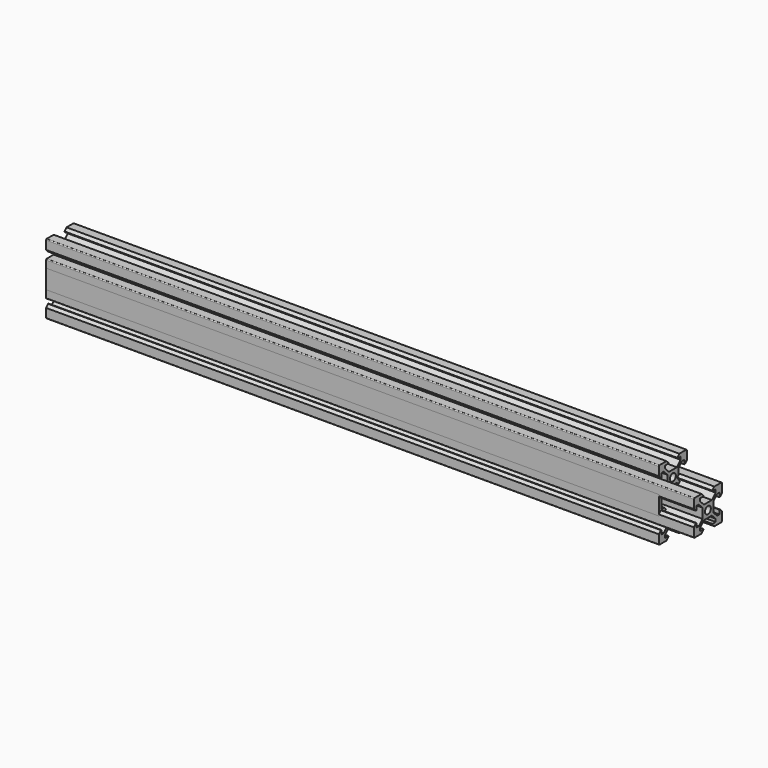
from build123d import *

# Parameters (mm, degrees)
F0_R     = 2.1
F2_DEPTH = 325
F3_DEPTH = 240
F4_DEPTH = 290
F1_R     = 2.1
F5_DEPTH = 327
F6_DEPTH = 350
F7_DEPTH = 370
F8_DEPTH = 350


with BuildPart() as f2:
    # F0 (on Right) → F2 (new body)
    with BuildSketch(Plane.YZ):
        with BuildLine():
            Line((2.83934, 13.9), (0, 13.9))
            Line((0, 13.9), (-2.83934, 13.9))
            Line((-2.83934, 13.9), (-5.5, 16.56066))
            Line((-5.5, 16.56066), (-5.5, 18.2))
            Line((-5.5, 18.2), (-3.125, 18.2))
            Line((-3.125, 18.2), (-3.125, 18.545))
            Line((-3.125, 18.545), (-4.58, 20))
            Line((-4.58, 20), (-9.5, 20))
            ThreePointArc((-9.5, 20), (-9.853553, 19.853553), (-10, 19.5))
            Line((-10, 19.5), (-10, 14.58))
            Line((-10, 14.58), (-8.545, 13.125))
            Line((-8.545, 13.125), (-8.2, 13.125))
            Line((-8.2, 13.125), (-8.2, 15.5))
            Line((-8.2, 15.5), (-6.56066, 15.5))
            Line((-6.56066, 15.5), (-3.9, 12.83934))
            Line((-3.9, 12.83934), (-3.9, 10))
            Line((-3.9, 10), (-3.9, 7.16066))
            Line((-3.9, 7.16066), (-6.56066, 4.5))
            Line((-6.56066, 4.5), (-8.2, 4.5))
            Line((-8.2, 4.5), (-8.2, 6.875))
            Line((-8.2, 6.875), (-8.545, 6.875))
            Line((-8.545, 6.875), (-10, 5.42))
            Line((-10, 5.42), (-10, 0))
            Line((-10, 0), (-10, -5.42))
            Line((-10, -5.42), (-8.545, -6.875))
            Line((-8.545, -6.875), (-8.2, -6.875))
            Line((-8.2, -6.875), (-8.2, -4.5))
            Line((-8.2, -4.5), (-6.56066, -4.5))
            Line((-6.56066, -4.5), (-3.9, -7.16066))
            Line((-3.9, -7.16066), (-3.9, -10))
            Line((-3.9, -10), (-3.9, -12.83934))
            Line((-3.9, -12.83934), (-6.56066, -15.5))
            Line((-6.56066, -15.5), (-8.2, -15.5))
            Line((-8.2, -15.5), (-8.2, -13.125))
            Line((-8.2, -13.125), (-8.545, -13.125))
            Line((-8.545, -13.125), (-10, -14.58))
            Line((-10, -14.58), (-10, -19.5))
            ThreePointArc((-10, -19.5), (-9.853553, -19.853553), (-9.5, -20))
            Line((-9.5, -20), (-4.58, -20))
            Line((-4.58, -20), (-3.125, -18.545))
            Line((-3.125, -18.545), (-3.125, -18.2))
            Line((-3.125, -18.2), (-5.5, -18.2))
            Line((-5.5, -18.2), (-5.5, -16.56066))
            Line((-5.5, -16.56066), (-2.83934, -13.9))
            Line((-2.83934, -13.9), (0, -13.9))
            Line((0, -13.9), (2.83934, -13.9))
            Line((2.83934, -13.9), (5.5, -16.56066))
            Line((5.5, -16.56066), (5.5, -18.2))
            Line((5.5, -18.2), (3.125, -18.2))
            Line((3.125, -18.2), (3.125, -18.545))
            Line((3.125, -18.545), (4.58, -20))
            Line((4.58, -20), (9.5, -20))
            ThreePointArc((9.5, -20), (9.853553, -19.853553), (10, -19.5))
            Line((10, -19.5), (10, -14.58))
            Line((10, -14.58), (8.545, -13.125))
            Line((8.545, -13.125), (8.2, -13.125))
            Line((8.2, -13.125), (8.2, -15.5))
            Line((8.2, -15.5), (6.56066, -15.5))
            Line((6.56066, -15.5), (3.9, -12.83934))
            Line((3.9, -12.83934), (3.9, -10))
            Line((3.9, -10), (3.9, -7.16066))
            Line((3.9, -7.16066), (6.56066, -4.5))
            Line((6.56066, -4.5), (8.2, -4.5))
            Line((8.2, -4.5), (8.2, -6.875))
            Line((8.2, -6.875), (8.545, -6.875))
            Line((8.545, -6.875), (10, -5.42))
            Line((10, -5.42), (10, 0))
            Line((10, 0), (10, 5.42))
            Line((10, 5.42), (8.545, 6.875))
            Line((8.545, 6.875), (8.2, 6.875))
            Line((8.2, 6.875), (8.2, 4.5))
            Line((8.2, 4.5), (6.56066, 4.5))
            Line((6.56066, 4.5), (3.9, 7.16066))
            Line((3.9, 7.16066), (3.9, 10))
            Line((3.9, 10), (3.9, 12.83934))
            Line((3.9, 12.83934), (6.56066, 15.5))
            Line((6.56066, 15.5), (8.2, 15.5))
            Line((8.2, 15.5), (8.2, 13.125))
            Line((8.2, 13.125), (8.545, 13.125))
            Line((8.545, 13.125), (10, 14.58))
            Line((10, 14.58), (10, 19.5))
            ThreePointArc((10, 19.5), (9.853553, 19.853553), (9.5, 20))
            Line((9.5, 20), (4.58, 20))
            Line((4.58, 20), (3.125, 18.545))
            Line((3.125, 18.545), (3.125, 18.2))
            Line((3.125, 18.2), (5.5, 18.2))
            Line((5.5, 18.2), (5.5, 16.56066))
            Line((5.5, 16.56066), (2.83934, 13.9))
        make_face()
        with Locations((0, -10)):
            Circle(F0_R, mode=Mode.SUBTRACT)
        Polygon((-2.83934, 6.1), (0, 6.1), (2.83934, 6.1), (6.23934, 2.7), (8.2, 2.7), (8.2, 0), (8.2, -2.7), (6.23934, -2.7), (2.83934, -6.1), (0, -6.1), (-2.83934, -6.1), (-6.23934, -2.7), (-8.2, -2.7), (-8.2, 0), (-8.2, 2.7), (-6.23934, 2.7), align=None, mode=Mode.SUBTRACT)
        with Locations((0, 10)):
            Circle(F0_R, mode=Mode.SUBTRACT)
    extrude(amount=F2_DEPTH)


with BuildPart() as f3:
    # F0 (on Right) → F3 (new body)
    with BuildSketch(Plane.YZ):
        with BuildLine():
            Line((2.83934, 13.9), (0, 13.9))
            Line((0, 13.9), (-2.83934, 13.9))
            Line((-2.83934, 13.9), (-5.5, 16.56066))
            Line((-5.5, 16.56066), (-5.5, 18.2))
            Line((-5.5, 18.2), (-3.125, 18.2))
            Line((-3.125, 18.2), (-3.125, 18.545))
            Line((-3.125, 18.545), (-4.58, 20))
            Line((-4.58, 20), (-9.5, 20))
            ThreePointArc((-9.5, 20), (-9.853553, 19.853553), (-10, 19.5))
            Line((-10, 19.5), (-10, 14.58))
            Line((-10, 14.58), (-8.545, 13.125))
            Line((-8.545, 13.125), (-8.2, 13.125))
            Line((-8.2, 13.125), (-8.2, 15.5))
            Line((-8.2, 15.5), (-6.56066, 15.5))
            Line((-6.56066, 15.5), (-3.9, 12.83934))
            Line((-3.9, 12.83934), (-3.9, 10))
            Line((-3.9, 10), (-3.9, 7.16066))
            Line((-3.9, 7.16066), (-6.56066, 4.5))
            Line((-6.56066, 4.5), (-8.2, 4.5))
            Line((-8.2, 4.5), (-8.2, 6.875))
            Line((-8.2, 6.875), (-8.545, 6.875))
            Line((-8.545, 6.875), (-10, 5.42))
            Line((-10, 5.42), (-10, 0))
            Line((-10, 0), (-10, -5.42))
            Line((-10, -5.42), (-8.545, -6.875))
            Line((-8.545, -6.875), (-8.2, -6.875))
            Line((-8.2, -6.875), (-8.2, -4.5))
            Line((-8.2, -4.5), (-6.56066, -4.5))
            Line((-6.56066, -4.5), (-3.9, -7.16066))
            Line((-3.9, -7.16066), (-3.9, -10))
            Line((-3.9, -10), (-3.9, -12.83934))
            Line((-3.9, -12.83934), (-6.56066, -15.5))
            Line((-6.56066, -15.5), (-8.2, -15.5))
            Line((-8.2, -15.5), (-8.2, -13.125))
            Line((-8.2, -13.125), (-8.545, -13.125))
            Line((-8.545, -13.125), (-10, -14.58))
            Line((-10, -14.58), (-10, -19.5))
            ThreePointArc((-10, -19.5), (-9.853553, -19.853553), (-9.5, -20))
            Line((-9.5, -20), (-4.58, -20))
            Line((-4.58, -20), (-3.125, -18.545))
            Line((-3.125, -18.545), (-3.125, -18.2))
            Line((-3.125, -18.2), (-5.5, -18.2))
            Line((-5.5, -18.2), (-5.5, -16.56066))
            Line((-5.5, -16.56066), (-2.83934, -13.9))
            Line((-2.83934, -13.9), (0, -13.9))
            Line((0, -13.9), (2.83934, -13.9))
            Line((2.83934, -13.9), (5.5, -16.56066))
            Line((5.5, -16.56066), (5.5, -18.2))
            Line((5.5, -18.2), (3.125, -18.2))
            Line((3.125, -18.2), (3.125, -18.545))
            Line((3.125, -18.545), (4.58, -20))
            Line((4.58, -20), (9.5, -20))
            ThreePointArc((9.5, -20), (9.853553, -19.853553), (10, -19.5))
            Line((10, -19.5), (10, -14.58))
            Line((10, -14.58), (8.545, -13.125))
            Line((8.545, -13.125), (8.2, -13.125))
            Line((8.2, -13.125), (8.2, -15.5))
            Line((8.2, -15.5), (6.56066, -15.5))
            Line((6.56066, -15.5), (3.9, -12.83934))
            Line((3.9, -12.83934), (3.9, -10))
            Line((3.9, -10), (3.9, -7.16066))
            Line((3.9, -7.16066), (6.56066, -4.5))
            Line((6.56066, -4.5), (8.2, -4.5))
            Line((8.2, -4.5), (8.2, -6.875))
            Line((8.2, -6.875), (8.545, -6.875))
            Line((8.545, -6.875), (10, -5.42))
            Line((10, -5.42), (10, 0))
            Line((10, 0), (10, 5.42))
            Line((10, 5.42), (8.545, 6.875))
            Line((8.545, 6.875), (8.2, 6.875))
            Line((8.2, 6.875), (8.2, 4.5))
            Line((8.2, 4.5), (6.56066, 4.5))
            Line((6.56066, 4.5), (3.9, 7.16066))
            Line((3.9, 7.16066), (3.9, 10))
            Line((3.9, 10), (3.9, 12.83934))
            Line((3.9, 12.83934), (6.56066, 15.5))
            Line((6.56066, 15.5), (8.2, 15.5))
            Line((8.2, 15.5), (8.2, 13.125))
            Line((8.2, 13.125), (8.545, 13.125))
            Line((8.545, 13.125), (10, 14.58))
            Line((10, 14.58), (10, 19.5))
            ThreePointArc((10, 19.5), (9.853553, 19.853553), (9.5, 20))
            Line((9.5, 20), (4.58, 20))
            Line((4.58, 20), (3.125, 18.545))
            Line((3.125, 18.545), (3.125, 18.2))
            Line((3.125, 18.2), (5.5, 18.2))
            Line((5.5, 18.2), (5.5, 16.56066))
            Line((5.5, 16.56066), (2.83934, 13.9))
        make_face()
        with Locations((0, -10)):
            Circle(F0_R, mode=Mode.SUBTRACT)
        Polygon((-2.83934, 6.1), (0, 6.1), (2.83934, 6.1), (6.23934, 2.7), (8.2, 2.7), (8.2, 0), (8.2, -2.7), (6.23934, -2.7), (2.83934, -6.1), (0, -6.1), (-2.83934, -6.1), (-6.23934, -2.7), (-8.2, -2.7), (-8.2, 0), (-8.2, 2.7), (-6.23934, 2.7), align=None, mode=Mode.SUBTRACT)
        with Locations((0, 10)):
            Circle(F0_R, mode=Mode.SUBTRACT)
    extrude(amount=F3_DEPTH)


with BuildPart() as f4:
    # F0 (on Right) → F4 (new body)
    with BuildSketch(Plane.YZ):
        with BuildLine():
            Line((2.83934, 13.9), (0, 13.9))
            Line((0, 13.9), (-2.83934, 13.9))
            Line((-2.83934, 13.9), (-5.5, 16.56066))
            Line((-5.5, 16.56066), (-5.5, 18.2))
            Line((-5.5, 18.2), (-3.125, 18.2))
            Line((-3.125, 18.2), (-3.125, 18.545))
            Line((-3.125, 18.545), (-4.58, 20))
            Line((-4.58, 20), (-9.5, 20))
            ThreePointArc((-9.5, 20), (-9.853553, 19.853553), (-10, 19.5))
            Line((-10, 19.5), (-10, 14.58))
            Line((-10, 14.58), (-8.545, 13.125))
            Line((-8.545, 13.125), (-8.2, 13.125))
            Line((-8.2, 13.125), (-8.2, 15.5))
            Line((-8.2, 15.5), (-6.56066, 15.5))
            Line((-6.56066, 15.5), (-3.9, 12.83934))
            Line((-3.9, 12.83934), (-3.9, 10))
            Line((-3.9, 10), (-3.9, 7.16066))
            Line((-3.9, 7.16066), (-6.56066, 4.5))
            Line((-6.56066, 4.5), (-8.2, 4.5))
            Line((-8.2, 4.5), (-8.2, 6.875))
            Line((-8.2, 6.875), (-8.545, 6.875))
            Line((-8.545, 6.875), (-10, 5.42))
            Line((-10, 5.42), (-10, 0))
            Line((-10, 0), (-10, -5.42))
            Line((-10, -5.42), (-8.545, -6.875))
            Line((-8.545, -6.875), (-8.2, -6.875))
            Line((-8.2, -6.875), (-8.2, -4.5))
            Line((-8.2, -4.5), (-6.56066, -4.5))
            Line((-6.56066, -4.5), (-3.9, -7.16066))
            Line((-3.9, -7.16066), (-3.9, -10))
            Line((-3.9, -10), (-3.9, -12.83934))
            Line((-3.9, -12.83934), (-6.56066, -15.5))
            Line((-6.56066, -15.5), (-8.2, -15.5))
            Line((-8.2, -15.5), (-8.2, -13.125))
            Line((-8.2, -13.125), (-8.545, -13.125))
            Line((-8.545, -13.125), (-10, -14.58))
            Line((-10, -14.58), (-10, -19.5))
            ThreePointArc((-10, -19.5), (-9.853553, -19.853553), (-9.5, -20))
            Line((-9.5, -20), (-4.58, -20))
            Line((-4.58, -20), (-3.125, -18.545))
            Line((-3.125, -18.545), (-3.125, -18.2))
            Line((-3.125, -18.2), (-5.5, -18.2))
            Line((-5.5, -18.2), (-5.5, -16.56066))
            Line((-5.5, -16.56066), (-2.83934, -13.9))
            Line((-2.83934, -13.9), (0, -13.9))
            Line((0, -13.9), (2.83934, -13.9))
            Line((2.83934, -13.9), (5.5, -16.56066))
            Line((5.5, -16.56066), (5.5, -18.2))
            Line((5.5, -18.2), (3.125, -18.2))
            Line((3.125, -18.2), (3.125, -18.545))
            Line((3.125, -18.545), (4.58, -20))
            Line((4.58, -20), (9.5, -20))
            ThreePointArc((9.5, -20), (9.853553, -19.853553), (10, -19.5))
            Line((10, -19.5), (10, -14.58))
            Line((10, -14.58), (8.545, -13.125))
            Line((8.545, -13.125), (8.2, -13.125))
            Line((8.2, -13.125), (8.2, -15.5))
            Line((8.2, -15.5), (6.56066, -15.5))
            Line((6.56066, -15.5), (3.9, -12.83934))
            Line((3.9, -12.83934), (3.9, -10))
            Line((3.9, -10), (3.9, -7.16066))
            Line((3.9, -7.16066), (6.56066, -4.5))
            Line((6.56066, -4.5), (8.2, -4.5))
            Line((8.2, -4.5), (8.2, -6.875))
            Line((8.2, -6.875), (8.545, -6.875))
            Line((8.545, -6.875), (10, -5.42))
            Line((10, -5.42), (10, 0))
            Line((10, 0), (10, 5.42))
            Line((10, 5.42), (8.545, 6.875))
            Line((8.545, 6.875), (8.2, 6.875))
            Line((8.2, 6.875), (8.2, 4.5))
            Line((8.2, 4.5), (6.56066, 4.5))
            Line((6.56066, 4.5), (3.9, 7.16066))
            Line((3.9, 7.16066), (3.9, 10))
            Line((3.9, 10), (3.9, 12.83934))
            Line((3.9, 12.83934), (6.56066, 15.5))
            Line((6.56066, 15.5), (8.2, 15.5))
            Line((8.2, 15.5), (8.2, 13.125))
            Line((8.2, 13.125), (8.545, 13.125))
            Line((8.545, 13.125), (10, 14.58))
            Line((10, 14.58), (10, 19.5))
            ThreePointArc((10, 19.5), (9.853553, 19.853553), (9.5, 20))
            Line((9.5, 20), (4.58, 20))
            Line((4.58, 20), (3.125, 18.545))
            Line((3.125, 18.545), (3.125, 18.2))
            Line((3.125, 18.2), (5.5, 18.2))
            Line((5.5, 18.2), (5.5, 16.56066))
            Line((5.5, 16.56066), (2.83934, 13.9))
        make_face()
        with Locations((0, -10)):
            Circle(F0_R, mode=Mode.SUBTRACT)
        Polygon((-2.83934, 6.1), (0, 6.1), (2.83934, 6.1), (6.23934, 2.7), (8.2, 2.7), (8.2, 0), (8.2, -2.7), (6.23934, -2.7), (2.83934, -6.1), (0, -6.1), (-2.83934, -6.1), (-6.23934, -2.7), (-8.2, -2.7), (-8.2, 0), (-8.2, 2.7), (-6.23934, 2.7), align=None, mode=Mode.SUBTRACT)
        with Locations((0, 10)):
            Circle(F0_R, mode=Mode.SUBTRACT)
    extrude(amount=F4_DEPTH)


with BuildPart() as f5:
    # F1 (on Right) → F5 (new body)
    with BuildSketch(Plane.YZ):
        with BuildLine():
            Line((-4.58, 10), (-9.5, 10))
            ThreePointArc((-9.5, 10), (-9.853553, 9.853553), (-10, 9.5))
            Line((-10, 9.5), (-10, 4.58))
            Line((-10, 4.58), (-8.545, 3.125))
            Line((-8.545, 3.125), (-8.2, 3.125))
            Line((-8.2, 3.125), (-8.2, 5.5))
            Line((-8.2, 5.5), (-6.56066, 5.5))
            Line((-6.56066, 5.5), (-3.9, 2.83934))
            Line((-3.9, 2.83934), (-3.9, 0))
            Line((-3.9, 0), (-3.9, -2.83934))
            Line((-3.9, -2.83934), (-6.56066, -5.5))
            Line((-6.56066, -5.5), (-8.2, -5.5))
            Line((-8.2, -5.5), (-8.2, -3.125))
            Line((-8.2, -3.125), (-8.545, -3.125))
            Line((-8.545, -3.125), (-10, -4.58))
            Line((-10, -4.58), (-10, -9.5))
            ThreePointArc((-10, -9.5), (-9.853553, -9.853553), (-9.5, -10))
            Line((-9.5, -10), (-4.58, -10))
            Line((-4.58, -10), (-3.125, -8.545))
            Line((-3.125, -8.545), (-3.125, -8.2))
            Line((-3.125, -8.2), (-5.5, -8.2))
            Line((-5.5, -8.2), (-5.5, -6.56066))
            Line((-5.5, -6.56066), (-2.83934, -3.9))
            Line((-2.83934, -3.9), (0, -3.9))
            Line((0, -3.9), (2.83934, -3.9))
            Line((2.83934, -3.9), (5.5, -6.56066))
            Line((5.5, -6.56066), (5.5, -8.2))
            Line((5.5, -8.2), (3.125, -8.2))
            Line((3.125, -8.2), (3.125, -8.545))
            Line((3.125, -8.545), (4.58, -10))
            Line((4.58, -10), (9.5, -10))
            ThreePointArc((9.5, -10), (9.853553, -9.853553), (10, -9.5))
            Line((10, -9.5), (10, -4.58))
            Line((10, -4.58), (8.545, -3.125))
            Line((8.545, -3.125), (8.2, -3.125))
            Line((8.2, -3.125), (8.2, -5.5))
            Line((8.2, -5.5), (6.56066, -5.5))
            Line((6.56066, -5.5), (3.9, -2.83934))
            Line((3.9, -2.83934), (3.9, 0))
            Line((3.9, 0), (3.9, 2.83934))
            Line((3.9, 2.83934), (6.56066, 5.5))
            Line((6.56066, 5.5), (8.2, 5.5))
            Line((8.2, 5.5), (8.2, 3.125))
            Line((8.2, 3.125), (8.545, 3.125))
            Line((8.545, 3.125), (10, 4.58))
            Line((10, 4.58), (10, 9.5))
            ThreePointArc((10, 9.5), (9.853553, 9.853553), (9.5, 10))
            Line((9.5, 10), (4.58, 10))
            Line((4.58, 10), (3.125, 8.545))
            Line((3.125, 8.545), (3.125, 8.2))
            Line((3.125, 8.2), (5.5, 8.2))
            Line((5.5, 8.2), (5.5, 6.56066))
            Line((5.5, 6.56066), (2.83934, 3.9))
            Line((2.83934, 3.9), (0, 3.9))
            Line((0, 3.9), (-2.83934, 3.9))
            Line((-2.83934, 3.9), (-5.5, 6.56066))
            Line((-5.5, 6.56066), (-5.5, 8.2))
            Line((-5.5, 8.2), (-3.125, 8.2))
            Line((-3.125, 8.2), (-3.125, 8.545))
            Line((-3.125, 8.545), (-4.58, 10))
        make_face()
        Circle(F1_R, mode=Mode.SUBTRACT)
    extrude(amount=F5_DEPTH)


with BuildPart() as f6:
    # F0 (on Right) → F6 (new body)
    with BuildSketch(Plane.YZ):
        with BuildLine():
            Line((2.83934, 13.9), (0, 13.9))
            Line((0, 13.9), (-2.83934, 13.9))
            Line((-2.83934, 13.9), (-5.5, 16.56066))
            Line((-5.5, 16.56066), (-5.5, 18.2))
            Line((-5.5, 18.2), (-3.125, 18.2))
            Line((-3.125, 18.2), (-3.125, 18.545))
            Line((-3.125, 18.545), (-4.58, 20))
            Line((-4.58, 20), (-9.5, 20))
            ThreePointArc((-9.5, 20), (-9.853553, 19.853553), (-10, 19.5))
            Line((-10, 19.5), (-10, 14.58))
            Line((-10, 14.58), (-8.545, 13.125))
            Line((-8.545, 13.125), (-8.2, 13.125))
            Line((-8.2, 13.125), (-8.2, 15.5))
            Line((-8.2, 15.5), (-6.56066, 15.5))
            Line((-6.56066, 15.5), (-3.9, 12.83934))
            Line((-3.9, 12.83934), (-3.9, 10))
            Line((-3.9, 10), (-3.9, 7.16066))
            Line((-3.9, 7.16066), (-6.56066, 4.5))
            Line((-6.56066, 4.5), (-8.2, 4.5))
            Line((-8.2, 4.5), (-8.2, 6.875))
            Line((-8.2, 6.875), (-8.545, 6.875))
            Line((-8.545, 6.875), (-10, 5.42))
            Line((-10, 5.42), (-10, 0))
            Line((-10, 0), (-10, -5.42))
            Line((-10, -5.42), (-8.545, -6.875))
            Line((-8.545, -6.875), (-8.2, -6.875))
            Line((-8.2, -6.875), (-8.2, -4.5))
            Line((-8.2, -4.5), (-6.56066, -4.5))
            Line((-6.56066, -4.5), (-3.9, -7.16066))
            Line((-3.9, -7.16066), (-3.9, -10))
            Line((-3.9, -10), (-3.9, -12.83934))
            Line((-3.9, -12.83934), (-6.56066, -15.5))
            Line((-6.56066, -15.5), (-8.2, -15.5))
            Line((-8.2, -15.5), (-8.2, -13.125))
            Line((-8.2, -13.125), (-8.545, -13.125))
            Line((-8.545, -13.125), (-10, -14.58))
            Line((-10, -14.58), (-10, -19.5))
            ThreePointArc((-10, -19.5), (-9.853553, -19.853553), (-9.5, -20))
            Line((-9.5, -20), (-4.58, -20))
            Line((-4.58, -20), (-3.125, -18.545))
            Line((-3.125, -18.545), (-3.125, -18.2))
            Line((-3.125, -18.2), (-5.5, -18.2))
            Line((-5.5, -18.2), (-5.5, -16.56066))
            Line((-5.5, -16.56066), (-2.83934, -13.9))
            Line((-2.83934, -13.9), (0, -13.9))
            Line((0, -13.9), (2.83934, -13.9))
            Line((2.83934, -13.9), (5.5, -16.56066))
            Line((5.5, -16.56066), (5.5, -18.2))
            Line((5.5, -18.2), (3.125, -18.2))
            Line((3.125, -18.2), (3.125, -18.545))
            Line((3.125, -18.545), (4.58, -20))
            Line((4.58, -20), (9.5, -20))
            ThreePointArc((9.5, -20), (9.853553, -19.853553), (10, -19.5))
            Line((10, -19.5), (10, -14.58))
            Line((10, -14.58), (8.545, -13.125))
            Line((8.545, -13.125), (8.2, -13.125))
            Line((8.2, -13.125), (8.2, -15.5))
            Line((8.2, -15.5), (6.56066, -15.5))
            Line((6.56066, -15.5), (3.9, -12.83934))
            Line((3.9, -12.83934), (3.9, -10))
            Line((3.9, -10), (3.9, -7.16066))
            Line((3.9, -7.16066), (6.56066, -4.5))
            Line((6.56066, -4.5), (8.2, -4.5))
            Line((8.2, -4.5), (8.2, -6.875))
            Line((8.2, -6.875), (8.545, -6.875))
            Line((8.545, -6.875), (10, -5.42))
            Line((10, -5.42), (10, 0))
            Line((10, 0), (10, 5.42))
            Line((10, 5.42), (8.545, 6.875))
            Line((8.545, 6.875), (8.2, 6.875))
            Line((8.2, 6.875), (8.2, 4.5))
            Line((8.2, 4.5), (6.56066, 4.5))
            Line((6.56066, 4.5), (3.9, 7.16066))
            Line((3.9, 7.16066), (3.9, 10))
            Line((3.9, 10), (3.9, 12.83934))
            Line((3.9, 12.83934), (6.56066, 15.5))
            Line((6.56066, 15.5), (8.2, 15.5))
            Line((8.2, 15.5), (8.2, 13.125))
            Line((8.2, 13.125), (8.545, 13.125))
            Line((8.545, 13.125), (10, 14.58))
            Line((10, 14.58), (10, 19.5))
            ThreePointArc((10, 19.5), (9.853553, 19.853553), (9.5, 20))
            Line((9.5, 20), (4.58, 20))
            Line((4.58, 20), (3.125, 18.545))
            Line((3.125, 18.545), (3.125, 18.2))
            Line((3.125, 18.2), (5.5, 18.2))
            Line((5.5, 18.2), (5.5, 16.56066))
            Line((5.5, 16.56066), (2.83934, 13.9))
        make_face()
        with Locations((0, -10)):
            Circle(F0_R, mode=Mode.SUBTRACT)
        Polygon((-2.83934, 6.1), (0, 6.1), (2.83934, 6.1), (6.23934, 2.7), (8.2, 2.7), (8.2, 0), (8.2, -2.7), (6.23934, -2.7), (2.83934, -6.1), (0, -6.1), (-2.83934, -6.1), (-6.23934, -2.7), (-8.2, -2.7), (-8.2, 0), (-8.2, 2.7), (-6.23934, 2.7), align=None, mode=Mode.SUBTRACT)
        with Locations((0, 10)):
            Circle(F0_R, mode=Mode.SUBTRACT)
    extrude(amount=F6_DEPTH)


with BuildPart() as f7:
    # F1 (on Right) → F7 (new body)
    with BuildSketch(Plane.YZ):
        with BuildLine():
            Line((-4.58, 10), (-9.5, 10))
            ThreePointArc((-9.5, 10), (-9.853553, 9.853553), (-10, 9.5))
            Line((-10, 9.5), (-10, 4.58))
            Line((-10, 4.58), (-8.545, 3.125))
            Line((-8.545, 3.125), (-8.2, 3.125))
            Line((-8.2, 3.125), (-8.2, 5.5))
            Line((-8.2, 5.5), (-6.56066, 5.5))
            Line((-6.56066, 5.5), (-3.9, 2.83934))
            Line((-3.9, 2.83934), (-3.9, 0))
            Line((-3.9, 0), (-3.9, -2.83934))
            Line((-3.9, -2.83934), (-6.56066, -5.5))
            Line((-6.56066, -5.5), (-8.2, -5.5))
            Line((-8.2, -5.5), (-8.2, -3.125))
            Line((-8.2, -3.125), (-8.545, -3.125))
            Line((-8.545, -3.125), (-10, -4.58))
            Line((-10, -4.58), (-10, -9.5))
            ThreePointArc((-10, -9.5), (-9.853553, -9.853553), (-9.5, -10))
            Line((-9.5, -10), (-4.58, -10))
            Line((-4.58, -10), (-3.125, -8.545))
            Line((-3.125, -8.545), (-3.125, -8.2))
            Line((-3.125, -8.2), (-5.5, -8.2))
            Line((-5.5, -8.2), (-5.5, -6.56066))
            Line((-5.5, -6.56066), (-2.83934, -3.9))
            Line((-2.83934, -3.9), (0, -3.9))
            Line((0, -3.9), (2.83934, -3.9))
            Line((2.83934, -3.9), (5.5, -6.56066))
            Line((5.5, -6.56066), (5.5, -8.2))
            Line((5.5, -8.2), (3.125, -8.2))
            Line((3.125, -8.2), (3.125, -8.545))
            Line((3.125, -8.545), (4.58, -10))
            Line((4.58, -10), (9.5, -10))
            ThreePointArc((9.5, -10), (9.853553, -9.853553), (10, -9.5))
            Line((10, -9.5), (10, -4.58))
            Line((10, -4.58), (8.545, -3.125))
            Line((8.545, -3.125), (8.2, -3.125))
            Line((8.2, -3.125), (8.2, -5.5))
            Line((8.2, -5.5), (6.56066, -5.5))
            Line((6.56066, -5.5), (3.9, -2.83934))
            Line((3.9, -2.83934), (3.9, 0))
            Line((3.9, 0), (3.9, 2.83934))
            Line((3.9, 2.83934), (6.56066, 5.5))
            Line((6.56066, 5.5), (8.2, 5.5))
            Line((8.2, 5.5), (8.2, 3.125))
            Line((8.2, 3.125), (8.545, 3.125))
            Line((8.545, 3.125), (10, 4.58))
            Line((10, 4.58), (10, 9.5))
            ThreePointArc((10, 9.5), (9.853553, 9.853553), (9.5, 10))
            Line((9.5, 10), (4.58, 10))
            Line((4.58, 10), (3.125, 8.545))
            Line((3.125, 8.545), (3.125, 8.2))
            Line((3.125, 8.2), (5.5, 8.2))
            Line((5.5, 8.2), (5.5, 6.56066))
            Line((5.5, 6.56066), (2.83934, 3.9))
            Line((2.83934, 3.9), (0, 3.9))
            Line((0, 3.9), (-2.83934, 3.9))
            Line((-2.83934, 3.9), (-5.5, 6.56066))
            Line((-5.5, 6.56066), (-5.5, 8.2))
            Line((-5.5, 8.2), (-3.125, 8.2))
            Line((-3.125, 8.2), (-3.125, 8.545))
            Line((-3.125, 8.545), (-4.58, 10))
        make_face()
        Circle(F1_R, mode=Mode.SUBTRACT)
    extrude(amount=F7_DEPTH)


with BuildPart() as f8:
    # F0 (on Right) → F8 (new body)
    with BuildSketch(Plane.YZ):
        with BuildLine():
            Line((2.83934, 13.9), (0, 13.9))
            Line((0, 13.9), (-2.83934, 13.9))
            Line((-2.83934, 13.9), (-5.5, 16.56066))
            Line((-5.5, 16.56066), (-5.5, 18.2))
            Line((-5.5, 18.2), (-3.125, 18.2))
            Line((-3.125, 18.2), (-3.125, 18.545))
            Line((-3.125, 18.545), (-4.58, 20))
            Line((-4.58, 20), (-9.5, 20))
            ThreePointArc((-9.5, 20), (-9.853553, 19.853553), (-10, 19.5))
            Line((-10, 19.5), (-10, 14.58))
            Line((-10, 14.58), (-8.545, 13.125))
            Line((-8.545, 13.125), (-8.2, 13.125))
            Line((-8.2, 13.125), (-8.2, 15.5))
            Line((-8.2, 15.5), (-6.56066, 15.5))
            Line((-6.56066, 15.5), (-3.9, 12.83934))
            Line((-3.9, 12.83934), (-3.9, 10))
            Line((-3.9, 10), (-3.9, 7.16066))
            Line((-3.9, 7.16066), (-6.56066, 4.5))
            Line((-6.56066, 4.5), (-8.2, 4.5))
            Line((-8.2, 4.5), (-8.2, 6.875))
            Line((-8.2, 6.875), (-8.545, 6.875))
            Line((-8.545, 6.875), (-10, 5.42))
            Line((-10, 5.42), (-10, 0))
            Line((-10, 0), (-10, -5.42))
            Line((-10, -5.42), (-8.545, -6.875))
            Line((-8.545, -6.875), (-8.2, -6.875))
            Line((-8.2, -6.875), (-8.2, -4.5))
            Line((-8.2, -4.5), (-6.56066, -4.5))
            Line((-6.56066, -4.5), (-3.9, -7.16066))
            Line((-3.9, -7.16066), (-3.9, -10))
            Line((-3.9, -10), (-3.9, -12.83934))
            Line((-3.9, -12.83934), (-6.56066, -15.5))
            Line((-6.56066, -15.5), (-8.2, -15.5))
            Line((-8.2, -15.5), (-8.2, -13.125))
            Line((-8.2, -13.125), (-8.545, -13.125))
            Line((-8.545, -13.125), (-10, -14.58))
            Line((-10, -14.58), (-10, -19.5))
            ThreePointArc((-10, -19.5), (-9.853553, -19.853553), (-9.5, -20))
            Line((-9.5, -20), (-4.58, -20))
            Line((-4.58, -20), (-3.125, -18.545))
            Line((-3.125, -18.545), (-3.125, -18.2))
            Line((-3.125, -18.2), (-5.5, -18.2))
            Line((-5.5, -18.2), (-5.5, -16.56066))
            Line((-5.5, -16.56066), (-2.83934, -13.9))
            Line((-2.83934, -13.9), (0, -13.9))
            Line((0, -13.9), (2.83934, -13.9))
            Line((2.83934, -13.9), (5.5, -16.56066))
            Line((5.5, -16.56066), (5.5, -18.2))
            Line((5.5, -18.2), (3.125, -18.2))
            Line((3.125, -18.2), (3.125, -18.545))
            Line((3.125, -18.545), (4.58, -20))
            Line((4.58, -20), (9.5, -20))
            ThreePointArc((9.5, -20), (9.853553, -19.853553), (10, -19.5))
            Line((10, -19.5), (10, -14.58))
            Line((10, -14.58), (8.545, -13.125))
            Line((8.545, -13.125), (8.2, -13.125))
            Line((8.2, -13.125), (8.2, -15.5))
            Line((8.2, -15.5), (6.56066, -15.5))
            Line((6.56066, -15.5), (3.9, -12.83934))
            Line((3.9, -12.83934), (3.9, -10))
            Line((3.9, -10), (3.9, -7.16066))
            Line((3.9, -7.16066), (6.56066, -4.5))
            Line((6.56066, -4.5), (8.2, -4.5))
            Line((8.2, -4.5), (8.2, -6.875))
            Line((8.2, -6.875), (8.545, -6.875))
            Line((8.545, -6.875), (10, -5.42))
            Line((10, -5.42), (10, 0))
            Line((10, 0), (10, 5.42))
            Line((10, 5.42), (8.545, 6.875))
            Line((8.545, 6.875), (8.2, 6.875))
            Line((8.2, 6.875), (8.2, 4.5))
            Line((8.2, 4.5), (6.56066, 4.5))
            Line((6.56066, 4.5), (3.9, 7.16066))
            Line((3.9, 7.16066), (3.9, 10))
            Line((3.9, 10), (3.9, 12.83934))
            Line((3.9, 12.83934), (6.56066, 15.5))
            Line((6.56066, 15.5), (8.2, 15.5))
            Line((8.2, 15.5), (8.2, 13.125))
            Line((8.2, 13.125), (8.545, 13.125))
            Line((8.545, 13.125), (10, 14.58))
            Line((10, 14.58), (10, 19.5))
            ThreePointArc((10, 19.5), (9.853553, 19.853553), (9.5, 20))
            Line((9.5, 20), (4.58, 20))
            Line((4.58, 20), (3.125, 18.545))
            Line((3.125, 18.545), (3.125, 18.2))
            Line((3.125, 18.2), (5.5, 18.2))
            Line((5.5, 18.2), (5.5, 16.56066))
            Line((5.5, 16.56066), (2.83934, 13.9))
        make_face()
        with Locations((0, -10)):
            Circle(F0_R, mode=Mode.SUBTRACT)
        Polygon((-2.83934, 6.1), (0, 6.1), (2.83934, 6.1), (6.23934, 2.7), (8.2, 2.7), (8.2, 0), (8.2, -2.7), (6.23934, -2.7), (2.83934, -6.1), (0, -6.1), (-2.83934, -6.1), (-6.23934, -2.7), (-8.2, -2.7), (-8.2, 0), (-8.2, 2.7), (-6.23934, 2.7), align=None, mode=Mode.SUBTRACT)
        with Locations((0, 10)):
            Circle(F0_R, mode=Mode.SUBTRACT)
    extrude(amount=F8_DEPTH)


solid = Compound([f2.part, f3.part, f4.part, f5.part, f6.part, f7.part, f8.part])
